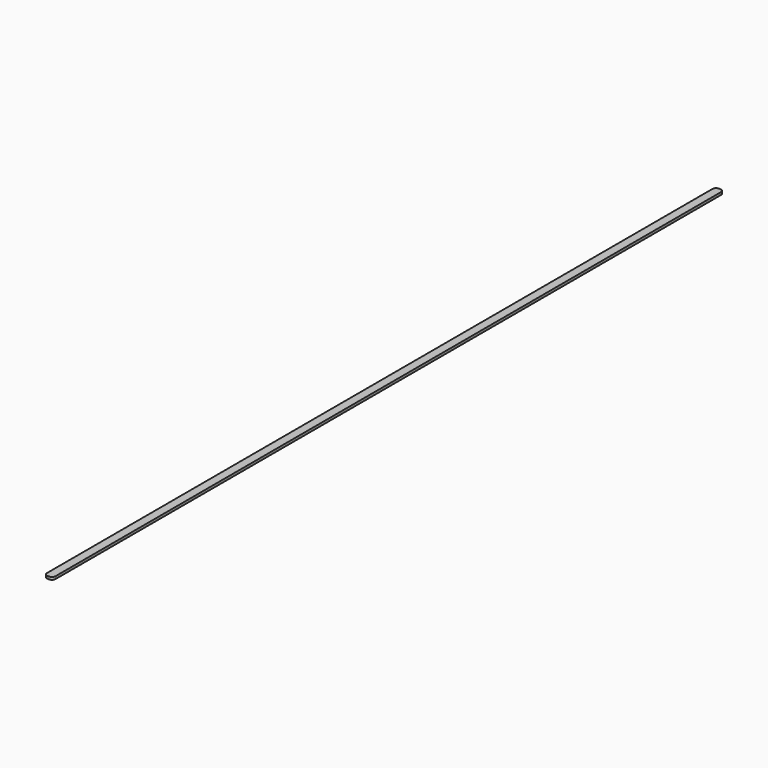
from build123d import *

# Parameters (mm, degrees)
BOX006_W     = 1
BOX006_H     = 98
BOX006_DEPTH = 0.3
FILLET007_R  = 0.45
FILLET008_R  = 0.45
FILLET009_R  = 0.45
FILLET010_R  = 0.45


with BuildPart() as part:
    # Box006 → Box006 (new body)
    with BuildSketch(Plane(origin=(56, -102, 10.6), x_dir=(1, 0, 0), z_dir=(0, 0, 1))):
        with Locations((0.5, 49)):
            Rectangle(BOX006_W, BOX006_H)
    extrude(amount=BOX006_DEPTH)

    # Fillet007
    fillet007_edges = [part.edges().sort_by_distance(p)[0] for p in [
        (56, -102, 10.75),
    ]]
    fillet(fillet007_edges, radius=FILLET007_R)

    # Fillet008
    fillet008_edges = [part.edges().sort_by_distance(p)[0] for p in [
        (57, -102, 10.75),
    ]]
    fillet(fillet008_edges, radius=FILLET008_R)

    # Fillet009
    fillet009_edges = [part.edges().sort_by_distance(p)[0] for p in [
        (57, -4, 10.75),
    ]]
    fillet(fillet009_edges, radius=FILLET009_R)

    # Fillet010
    fillet010_edges = [part.edges().sort_by_distance(p)[0] for p in [
        (56, -4, 10.75),
    ]]
    fillet(fillet010_edges, radius=FILLET010_R)


solid = part.part
